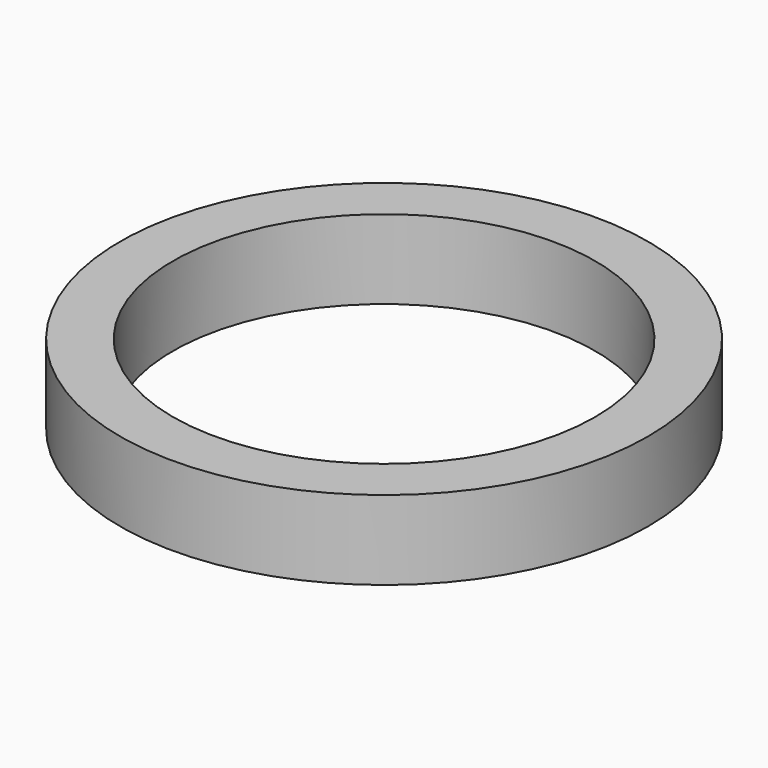
from build123d import *

# Parameters (mm, degrees)
F1_R     = 5
F1_R_2   = 4
F2_DEPTH = 1.5


with BuildPart() as f2:
    # F1 (on offset) → F2 (new body)
    with BuildSketch(Plane.XY.offset(25)):
        Circle(F1_R)
        Circle(F1_R_2, mode=Mode.SUBTRACT)
    extrude(amount=F2_DEPTH)


solid = f2.part
